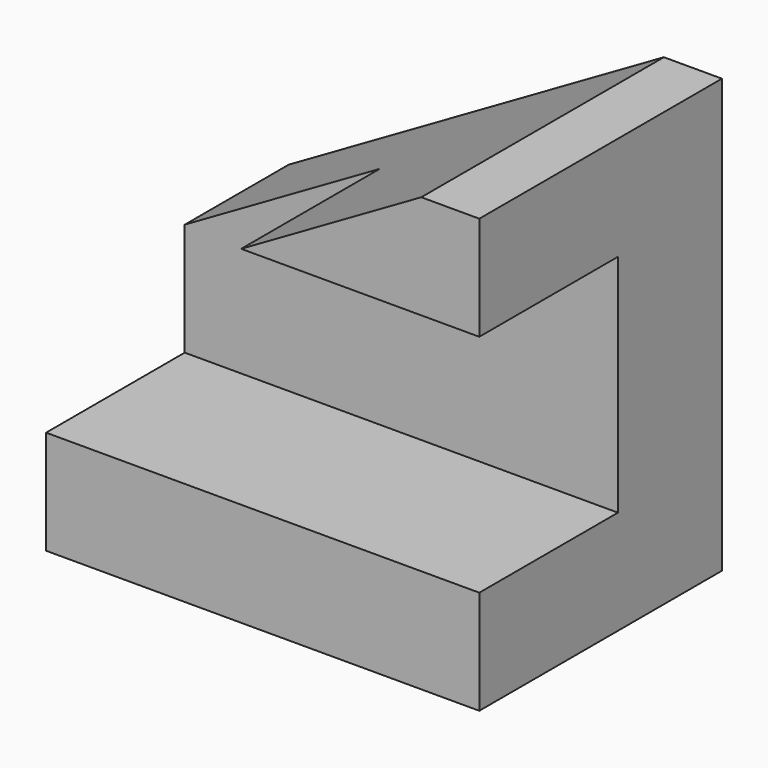
from build123d import *

# Parameters (mm, degrees)
F0_W     = 50
F0_H     = 50
F1_DEPTH = 35
F3_DEPTH = 35.001
F5_DEPTH = 20


with BuildPart() as f1:
    # F0 (on Front) → F1 (new body)
    with BuildSketch(Plane.XZ):
        Rectangle(F0_W, F0_H)
    extrude(amount=F1_DEPTH)

    # F2 (on face) → F3 (cut, through all)
    with BuildSketch(Plane.XZ.offset(35)):
        Polygon((-25, 0), (18.30127, 25), (-25, 25), align=None)
    extrude(amount=-F3_DEPTH, mode=Mode.SUBTRACT)

    # F4 (on face) → F5 (cut)
    with BuildSketch(Plane.XZ.offset(35)):
        Polygon((-25, 0), (-25, -13), (25, -13), (25, 13), (-2.48334, 13), align=None)
    extrude(amount=-F5_DEPTH, mode=Mode.SUBTRACT)


solid = f1.part
